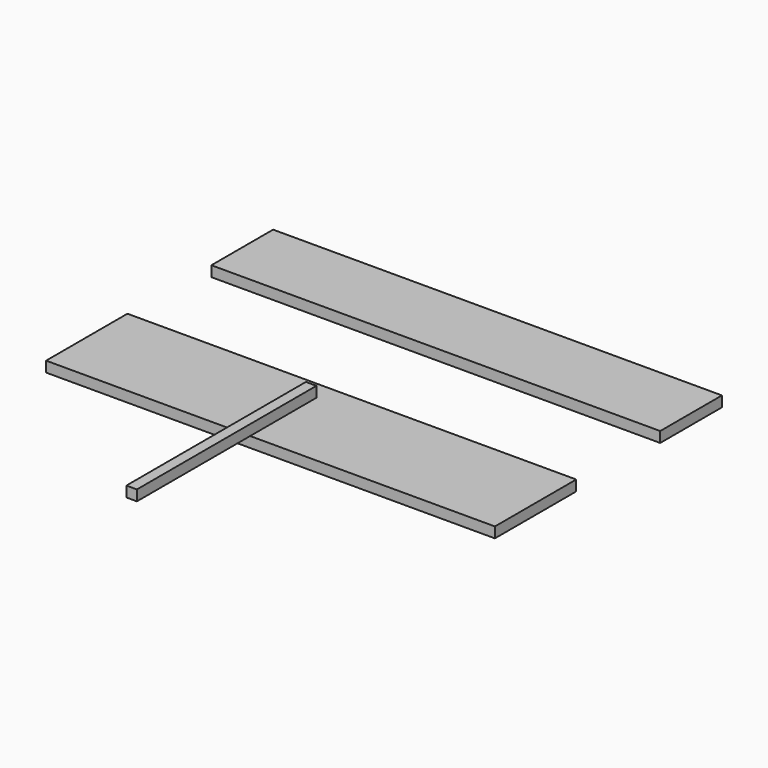
from build123d import *

# Parameters (mm, degrees)
F0_W     = 812.8
F0_H     = 184.15
F1_DEPTH = 19.05
F2_W     = 19.05
F2_H     = 19.05
F3_DEPTH = 406.4
F4_W     = 812.8
F4_H     = 139.7
F5_DEPTH = 19.05


with BuildPart() as f1:
    # F0 (on Top) → F1 (new body)
    with BuildSketch(Plane.XY):
        Rectangle(F0_W, F0_H)
    extrude(amount=F1_DEPTH)


with BuildPart() as f3:
    # F2 (on Front) → F3 (new body)
    with BuildSketch(Plane.XZ):
        with Locations((0, 67.235264)):
            Rectangle(F2_W, F2_H)
    extrude(amount=F3_DEPTH)


with BuildPart() as f5:
    # F4 (on Top) → F5 (new body)
    with BuildSketch(Plane.XY):
        with Locations((0, 351.979484)):
            Rectangle(F4_W, F4_H)
    extrude(amount=F5_DEPTH)


solid = Compound([f1.part, f3.part, f5.part])
